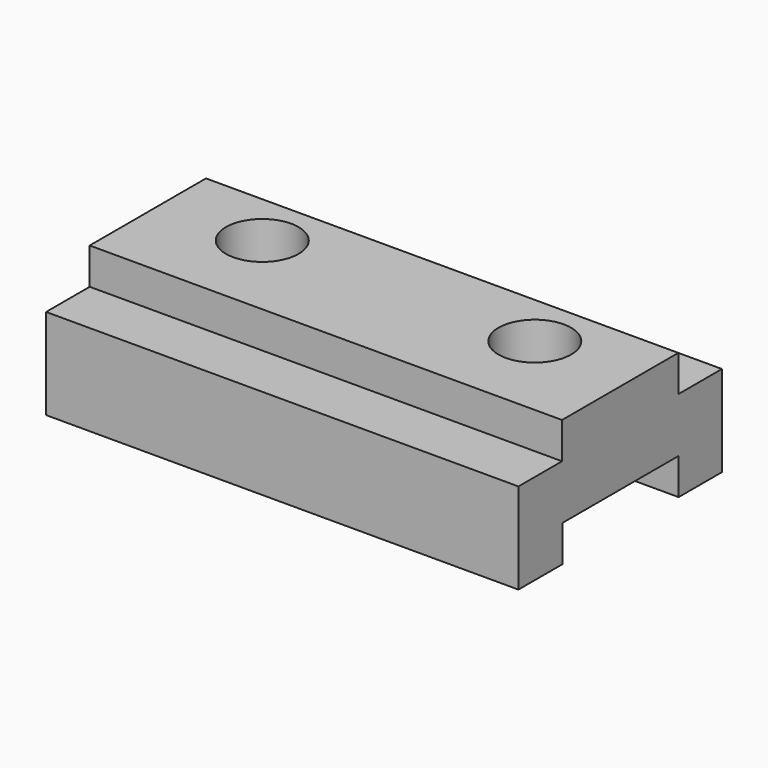
from build123d import *

# Parameters (mm, degrees)
F0_W     = 165.1
F0_H     = 44.45
F1_DEPTH = 88.9
F2_W     = 19.05
F2_H     = 12.7
F3_DEPTH = 254
F4_W     = 19.05
F4_H     = 12.7
F5_DEPTH = 254
F6_W     = 50.8
F6_H     = 12.7
F7_DEPTH = 254
F9_D     = 25.4
F11_D    = 25.4


with BuildPart() as f1:
    # F0 (on Front) → F1 (new body)
    with BuildSketch(Plane.XZ):
        with Locations((82.55, 22.225)):
            Rectangle(F0_W, F0_H)
    extrude(amount=-F1_DEPTH)

    # F2 (on face) → F3 (cut)
    with BuildSketch(Plane.YZ.offset(165.1)):
        with Locations((9.525, 38.1)):
            Rectangle(F2_W, F2_H)
    extrude(amount=-F3_DEPTH, mode=Mode.SUBTRACT)

    # F4 (on face) → F5 (cut)
    with BuildSketch(Plane.YZ.offset(165.1)):
        with Locations((79.375, 38.1)):
            Rectangle(F4_W, F4_H)
    extrude(amount=-F5_DEPTH, mode=Mode.SUBTRACT)

    # F6 (on face) → F7 (cut)
    with BuildSketch(Plane.YZ.offset(165.1)):
        with Locations((44.583684, 6.35)):
            Rectangle(F6_W, F6_H)
    extrude(amount=-F7_DEPTH, mode=Mode.SUBTRACT)

    # F9 (through all)
    with Locations(Plane.XY.offset(44.45)):
        with Locations((34.925, 50.8)):
            Hole(F9_D / 2)

    # F11 (through all)
    with Locations(Plane.XY.offset(44.45)):
        with Locations((130.175, 50.8)):
            Hole(F11_D / 2)


solid = f1.part
